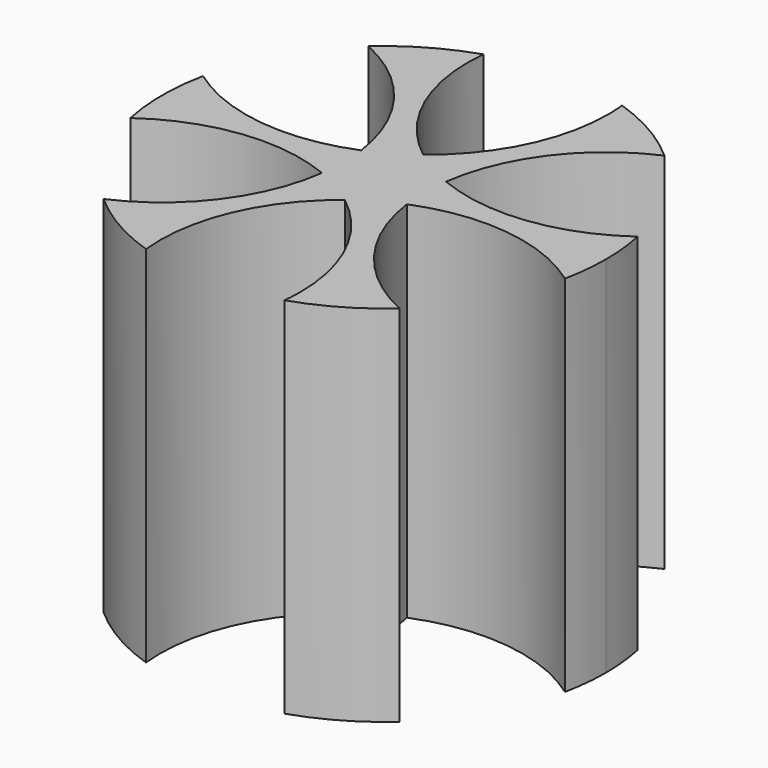
from build123d import *

# Parameters (mm, degrees)
F1_DEPTH = 5


with BuildPart() as f1:
    # F0 (on Top) → F1 (new body)
    with BuildSketch(Plane.XY):
        with BuildLine():
            ThreePointArc((-0.5828427764, 0.3365044338), (-0.28, 0.4849742261), (0, 0.6730088677))
            ThreePointArc((0, 0.6730088677), (-0.7642906068, 1.6619651488), (-0.9517724896, 2.8976937602))
            ThreePointArc((-0.9517724896, 2.8976937602), (-1.525, 2.6413774815), (-2.0335901639, 2.2731060347))
            ThreePointArc((-2.0335901639, 2.2731060347), (-1.0571587356, 1.4928776558), (-0.5828427764, 0.3365044338))
        make_face()
        with BuildLine():
            ThreePointArc((-0.56, 0), (-0.5657172578, 0.1686394278), (-0.5828427764, 0.3365044338))
            ThreePointArc((-0.5828427764, 0.3365044338), (-1.8214493424, 0.169087493), (-2.9853626535, 0.6245877255))
            ThreePointArc((-2.9853626535, 0.6245877255), (-3.05, 0), (-2.9853626535, -0.6245877255))
            ThreePointArc((-2.9853626535, -0.6245877255), (-1.8214493424, -0.169087493), (-0.5828427764, -0.3365044338))
            ThreePointArc((-0.5828427764, -0.3365044338), (-0.5657172578, -0.1686394278), (-0.56, 0))
        make_face()
        with BuildLine():
            ThreePointArc((0.5828427764, -0.3365044338), (0.56, 0), (0.5828427764, 0.3365044338))
            ThreePointArc((0.5828427764, 0.3365044338), (0.28, 0.4849742261), (0, 0.6730088677))
            ThreePointArc((0, 0.6730088677), (-0.28, 0.4849742261), (-0.5828427764, 0.3365044338))
            ThreePointArc((-0.5828427764, 0.3365044338), (-0.5657172578, 0.1686394278), (-0.56, 0))
            ThreePointArc((-0.56, 0), (-0.5657172578, -0.1686394278), (-0.5828427764, -0.3365044338))
            ThreePointArc((-0.5828427764, -0.3365044338), (-0.28, -0.4849742261), (0, -0.6730088677))
            ThreePointArc((0, -0.6730088677), (0.28, -0.4849742261), (0.5828427764, -0.3365044338))
        make_face()
        with BuildLine():
            ThreePointArc((0.5828427764, 0.3365044338), (1.0571587356, 1.4928776558), (2.0335901639, 2.2731060347))
            ThreePointArc((2.0335901639, 2.2731060347), (1.525, 2.6413774815), (0.9517724896, 2.8976937602))
            ThreePointArc((0.9517724896, 2.8976937602), (0.9616909236, 2.7697061628), (0.965, 2.6413774815))
            ThreePointArc((0.965, 2.6413774815), (0.7107716789, 1.545282139), (0, 0.6730088677))
            ThreePointArc((0, 0.6730088677), (0.28, 0.4849742261), (0.5828427764, 0.3365044338))
        make_face()
        with BuildLine():
            ThreePointArc((2.9853626535, -0.6245877255), (3.0337976278, -0.3139617068), (3.05, 0))
            ThreePointArc((3.05, 0), (3.0337976278, 0.3139617068), (2.9853626535, 0.6245877255))
            ThreePointArc((2.9853626535, 0.6245877255), (1.8214493424, 0.169087493), (0.5828427764, 0.3365044338))
            ThreePointArc((0.5828427764, 0.3365044338), (0.56, 0), (0.5828427764, -0.3365044338))
            ThreePointArc((0.5828427764, -0.3365044338), (1.8214493424, -0.169087493), (2.9853626535, -0.6245877255))
        make_face()
        with BuildLine():
            ThreePointArc((0.9517724896, -2.8976937602), (1.525, -2.6413774815), (2.0335901639, -2.2731060347))
            ThreePointArc((2.0335901639, -2.2731060347), (1.0571587356, -1.4928776558), (0.5828427764, -0.3365044338))
            ThreePointArc((0.5828427764, -0.3365044338), (0.28, -0.4849742261), (0, -0.6730088677))
            ThreePointArc((0, -0.6730088677), (0.7107716789, -1.545282139), (0.965, -2.6413774815))
            ThreePointArc((0.965, -2.6413774815), (0.9616909236, -2.7697061628), (0.9517724896, -2.8976937602))
        make_face()
        with BuildLine():
            ThreePointArc((-0.9517724896, -2.8976937602), (-0.7642906068, -1.6619651488), (0, -0.6730088677))
            ThreePointArc((0, -0.6730088677), (-0.28, -0.4849742261), (-0.5828427764, -0.3365044338))
            ThreePointArc((-0.5828427764, -0.3365044338), (-1.0571587356, -1.4928776558), (-2.0335901639, -2.2731060347))
            ThreePointArc((-2.0335901639, -2.2731060347), (-1.525, -2.6413774815), (-0.9517724896, -2.8976937602))
        make_face()
    extrude(amount=F1_DEPTH)


solid = f1.part
